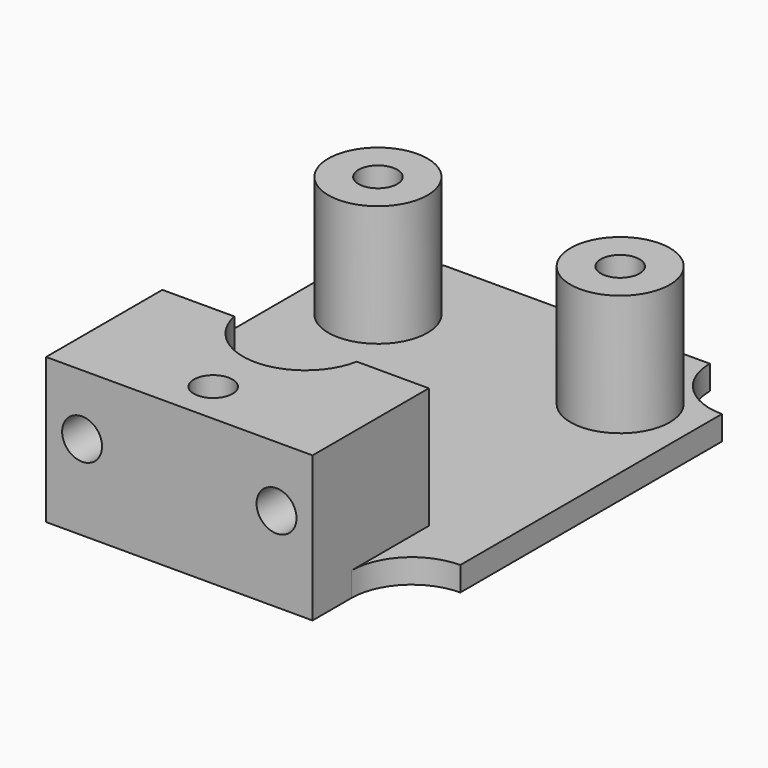
from build123d import *

# Parameters (mm, degrees)
SKETCH037_R     = 1.6
SKETCH037_R_2   = 5.65
PAD014_DEPTH    = 2
SKETCH038_R     = 4.1
SKETCH038_R_2   = 1.6
PAD015_DEPTH    = 10
SKETCH039_R     = 1.65
POCKET013_DEPTH = 22.501


with BuildPart() as part:
    # Sketch037 → Pad014 (new body)
    with BuildSketch(Plane.XY):
        with BuildLine():
            ThreePointArc((-16, 13.5), (-12.464466, 14.964466), (-11, 18.5))
            Line((-11, 18.5), (11, 18.5))
            ThreePointArc((11, 18.5), (12.464466, 14.964466), (16, 13.5))
            Line((16, -13.5), (16, 13.5))
            ThreePointArc((16, -13.5), (12.464466, -14.964466), (11, -18.5))
            Line((11, -22.5), (11, -18.5))
            Line((-11, -22.5), (11, -22.5))
            Line((-11, -18.5), (-11, -22.5))
            ThreePointArc((-11, -18.5), (-12.464466, -14.964466), (-16, -13.5))
            Line((-16, 13.5), (-16, -13.5))
        make_face()
        with Locations((-10, 10.5)):
            Circle(SKETCH037_R, mode=Mode.SUBTRACT)
        with Locations((10, 10.5)):
            Circle(SKETCH037_R, mode=Mode.SUBTRACT)
        with Locations((0, -9.5)):
            Circle(SKETCH037_R_2, mode=Mode.SUBTRACT)
        with Locations((0, -19)):
            Circle(SKETCH037_R, mode=Mode.SUBTRACT)
    extrude(amount=-PAD014_DEPTH)

    # Sketch038 → Pad015 (join)
    with BuildSketch(Plane.XY):
        with Locations((-10, 10.5)):
            Circle(SKETCH038_R)
        with Locations((-10, 10.5)):
            Circle(SKETCH038_R_2, mode=Mode.SUBTRACT)
        with Locations((10, 10.5)):
            Circle(SKETCH038_R)
        with Locations((10, 10.5)):
            Circle(SKETCH038_R_2, mode=Mode.SUBTRACT)
        with BuildLine():
            ThreePointArc((-5.05198, -10.5), (0, -14.65), (5.05198, -10.5))
            Line((5.05198, -10.5), (11, -10.5))
            Line((11, -10.5), (11, -22.5))
            Line((11, -22.5), (-11, -22.5))
            Line((-11, -22.5), (-11, -10.5))
            Line((-11, -10.5), (-5.05198, -10.5))
        make_face()
        with Locations((0, -19)):
            Circle(SKETCH038_R_2, mode=Mode.SUBTRACT)
    extrude(amount=PAD015_DEPTH)

    # Sketch039 → Pocket013 (cut, through all)
    with BuildSketch(Plane.XZ):
        with Locations((-8.02599, 5)):
            Circle(SKETCH039_R)
        with Locations((8.02599, 5)):
            Circle(SKETCH039_R)
    extrude(amount=POCKET013_DEPTH, mode=Mode.SUBTRACT)


solid = part.part
